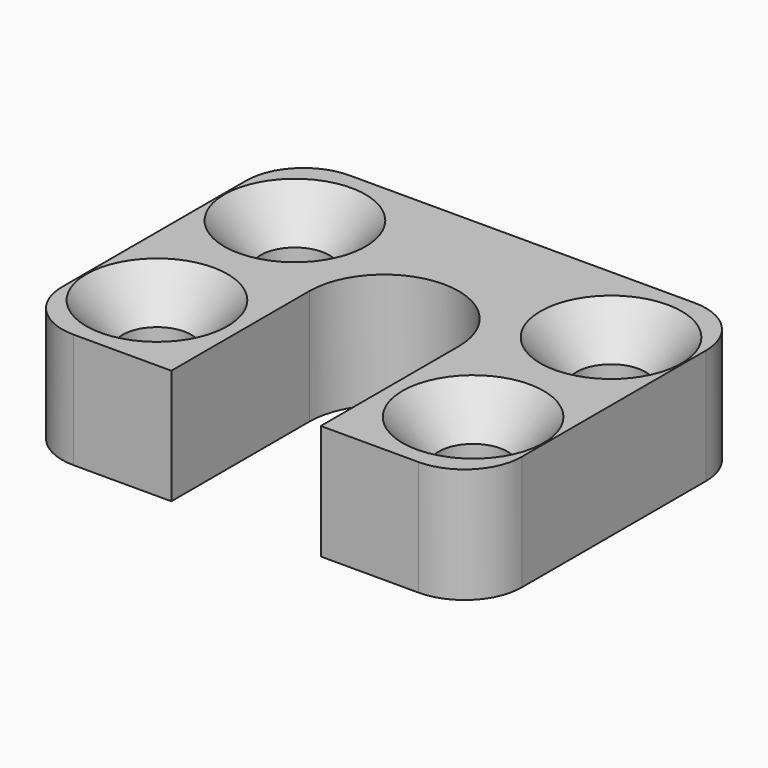
from build123d import *

# Parameters (mm, degrees)
F0_W           = 25.4
F0_H           = 19.05
F1_DEPTH       = 6.35
F3_DEPTH       = 6.351
F5_D           = 3.7973
F5_CSINK_D     = 7.7978
F5_CSINK_ANGLE = 82
F6_R           = 3.175


with BuildPart() as f1:
    # F0 (on Top) → F1 (new body)
    with BuildSketch(Plane.XY):
        Rectangle(F0_W, F0_H)
    extrude(amount=F1_DEPTH)

    # F2 (on face) → F3 (cut, through all)
    with BuildSketch(Plane.XY.offset(6.35)):
        with BuildLine():
            Line((4.1275, -9.525), (4.1275, 0))
            ThreePointArc((4.1275, 0), (0, 4.1275), (-4.1275, 0))
            Line((-4.1275, 0), (-4.1275, -9.525))
            Line((-4.1275, -9.525), (4.1275, -9.525))
        make_face()
    extrude(amount=-F3_DEPTH, mode=Mode.SUBTRACT)

    # F5 (through all)
    with Locations(Plane.XY.offset(6.35)):
        with Locations((-8.73125, 4.7625), (8.73125, 4.7625), (8.73125, -4.7625), (-8.73125, -4.7625)):
            CounterSinkHole(F5_D / 2, F5_CSINK_D / 2, counter_sink_angle=F5_CSINK_ANGLE)

    # F6
    f6_edges = [f1.edges().sort_by_distance(p)[0] for p in [
        (-12.7, 9.525, 3.175),
        (-12.7, -9.525, 3.175),
        (12.7, -9.525, 3.175),
        (12.7, 9.525, 3.175),
    ]]
    fillet(f6_edges, radius=F6_R)


solid = f1.part
